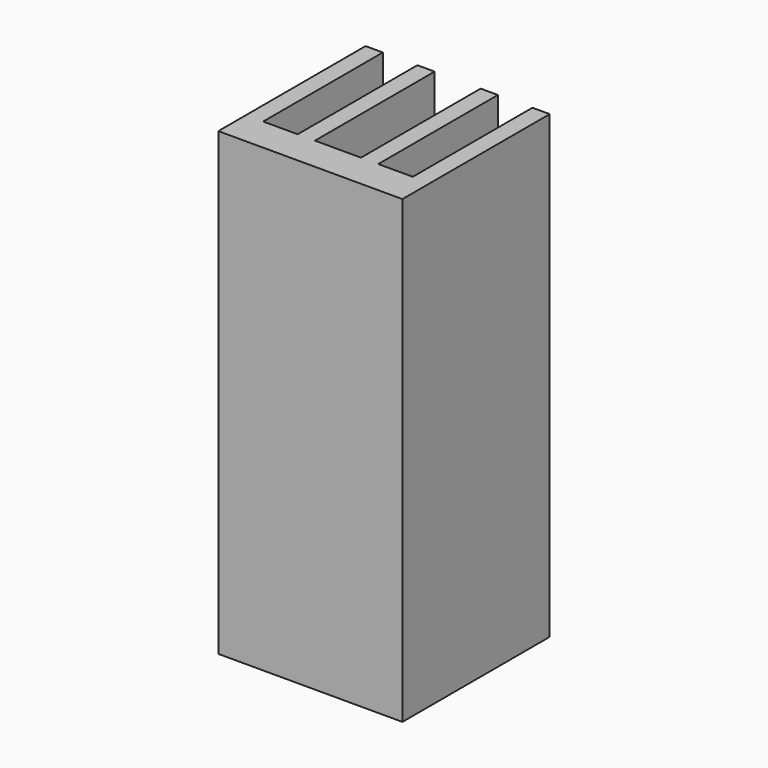
from build123d import *

# Parameters (mm, degrees)
EXTRUDE_DEPTH                     = 40
EXTRUDE_ONTO_WIRE_PLACEMENT_ANGLE = -3e-06


with BuildPart() as part:
    # Wire as drawn → Extrude (new)
    with BuildSketch(Plane.XY):
        Polygon((0, 0), (16, 0), (16, 16), (14.5, 16), (14.5, 3), (11.5, 3), (11.5, 16), (10, 16), (10, 3), (6, 3), (6, 16), (4.5, 16), (4.5, 3), (1.5, 3), (1.5, 16), (0, 16), align=None)
    extrude(amount=EXTRUDE_DEPTH)


with BuildPart() as part_1:
    # Extrude onto Wire placement: moved
    add(part.part.moved(Location((3.622236, 2.417496, 0))).rotate(Axis((3.622236, 2.417496, 0), (0, 0, 1)), EXTRUDE_ONTO_WIRE_PLACEMENT_ANGLE))


solid = part_1.part
